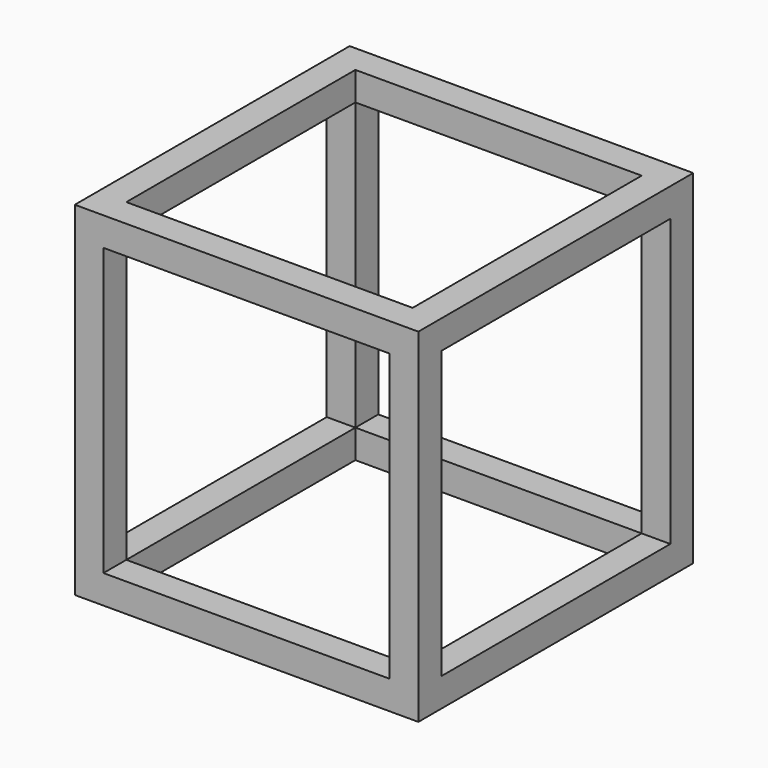
from build123d import *

# Parameters (mm, degrees)
F0_W     = 76.2
F0_H     = 76.2
F1_DEPTH = 76.2
F2_W     = 63.5
F2_H     = 63.5
F3_DEPTH = 76.2
F4_W     = 63.5
F4_H     = 63.5
F5_DEPTH = 76.2
F6_W     = 63.5
F6_H     = 63.5
F7_DEPTH = 76.2


with BuildPart() as f1:
    # F0 (on Top) → F1 (new body)
    with BuildSketch(Plane.XY):
        Rectangle(F0_W, F0_H)
    extrude(amount=F1_DEPTH)

    # F2 (on face) → F3 (cut)
    with BuildSketch(Plane.XZ.offset(38.1)):
        with Locations((0, 38.1)):
            Rectangle(F2_W, F2_H)
    extrude(amount=-F3_DEPTH, mode=Mode.SUBTRACT)

    # F4 (on face) → F5 (cut)
    with BuildSketch(Plane(origin=(-38.1, 0, 0), x_dir=(0, -1, 0), z_dir=(-1, 0, 0))):
        with Locations((0, 38.1)):
            Rectangle(F4_W, F4_H)
    extrude(amount=-F5_DEPTH, mode=Mode.SUBTRACT)

    # F6 (on face) → F7 (cut)
    with BuildSketch(Plane(origin=(0, 0, 0), x_dir=(1, 0, 0), z_dir=(0, 0, -1))):
        Rectangle(F6_W, F6_H)
    extrude(amount=-F7_DEPTH, mode=Mode.SUBTRACT)


solid = f1.part
